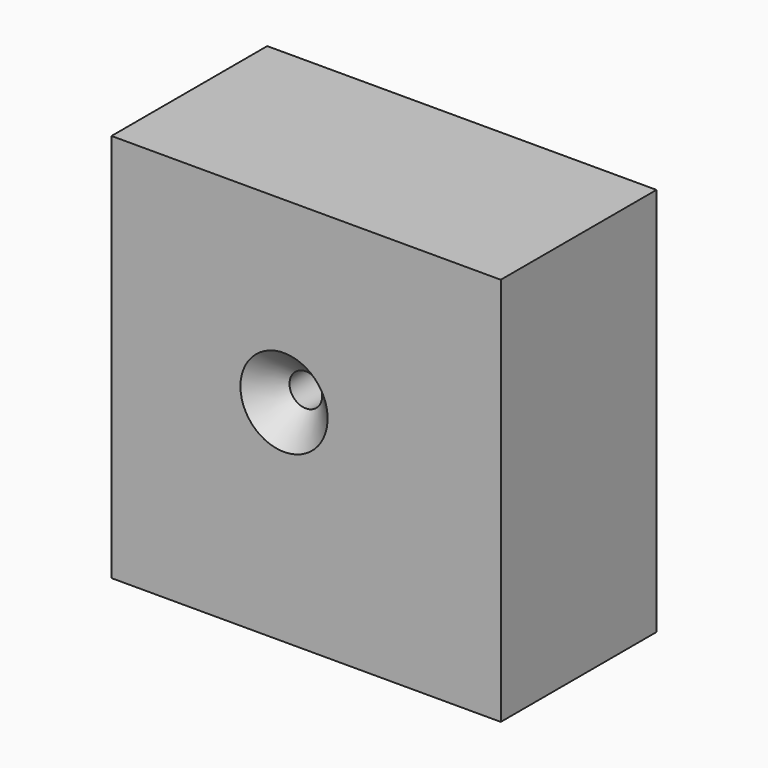
from build123d import *

# Parameters (mm, degrees)
F0_W           = 50
F0_H           = 50
F1_DEPTH       = 25
F3_D           = 4.2
F3_DEPTH       = 14.4
F3_CSINK_D     = 11.2
F3_CSINK_ANGLE = 90
F3_TIP         = 1.2618073


with BuildPart() as f1:
    # F0 (on Front) → F1 (new body)
    with BuildSketch(Plane.XZ):
        with Locations((-84.7486946732, 30.5484851895)):
            Rectangle(F0_W, F0_H)
    extrude(amount=F1_DEPTH)

    # F3
    with Locations(Plane.XZ.offset(25)):
        with Locations((-87.5890702009, 32.6180011034)):
            CounterSinkHole(F3_D / 2, F3_CSINK_D / 2, depth=F3_DEPTH, counter_sink_angle=F3_CSINK_ANGLE)
            with Locations((0, 0, -(F3_DEPTH + F3_TIP / 2))):  # 118° drill point
                Cone(0, F3_D / 2, F3_TIP, mode=Mode.SUBTRACT)


solid = f1.part
